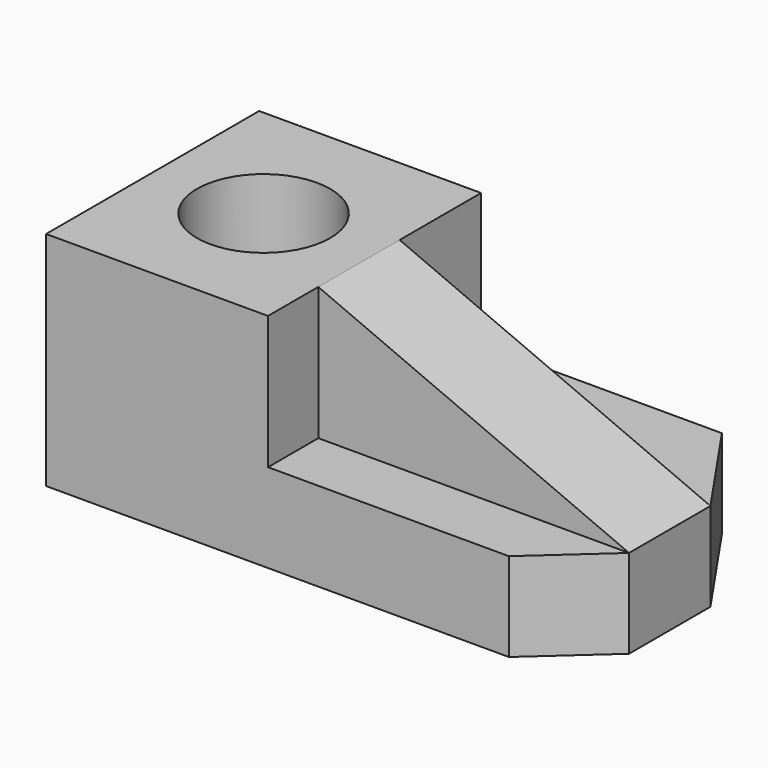
from build123d import *

# Parameters (mm, degrees)
F0_W      = 152.4
F0_H      = 76.2
F1_DEPTH  = 25.4
F2_W      = 63.5
F2_H      = 76.2
F3_DEPTH  = 38.1
F5_DEPTH  = 25.4
F7_DEPTH  = 25.4
F8_W      = 88.9
F8_H      = 29.105824
F9_DEPTH  = 38.1
F11_DEPTH = 38.1
F12_R     = 19.064579
F13_DEPTH = 76.2


with BuildPart() as f1:
    # F0 (on Top) → F1 (new body)
    with BuildSketch(Plane.XY):
        with Locations((1.330726, 9.390795)):
            Rectangle(F0_W, F0_H)
    extrude(amount=F1_DEPTH)

    # F2 (on face) → F3 (join)
    with BuildSketch(Plane.XY.offset(25.4)):
        with Locations((-43.119274, 9.390795)):
            Rectangle(F2_W, F2_H)
    extrude(amount=F3_DEPTH)

    # F4 (on face) → F5 (cut)
    with BuildSketch(Plane.XY.offset(25.4)):
        Polygon((57.543479, -28.709205), (77.530726, -28.709205), (77.530726, -10.720854), align=None)
    extrude(amount=-F5_DEPTH, mode=Mode.SUBTRACT)

    # F6 (on face) → F7 (cut)
    with BuildSketch(Plane.XY.offset(25.4)):
        Polygon((77.530726, 47.490795), (57.543479, 47.490795), (77.530726, 18.38497), align=None)
        Polygon((77.530726, 47.490795), (57.543479, 47.490795), (77.530726, 18.38497), align=None)
    extrude(amount=-F7_DEPTH, mode=Mode.SUBTRACT)

    # F8 (on face) → F9 (join)
    with BuildSketch(Plane.XY.offset(25.4)):
        with Locations((33.080726, 3.832058)):
            Rectangle(F8_W, F8_H)
    extrude(amount=F9_DEPTH)

    # F10 (on face) → F11 (cut)
    with BuildSketch(Plane.XZ.offset(10.720854)):
        Polygon((77.530726, 63.5), (-11.369274, 63.5), (77.530726, 25.4), align=None)
    extrude(amount=-F11_DEPTH, mode=Mode.SUBTRACT)

    # F12 (on face) → F13 (cut)
    with BuildSketch(Plane.XY.offset(63.5)):
        with Locations((-43.119274, 9.390795)):
            Circle(F12_R)
    extrude(amount=-F13_DEPTH, mode=Mode.SUBTRACT)


solid = f1.part
